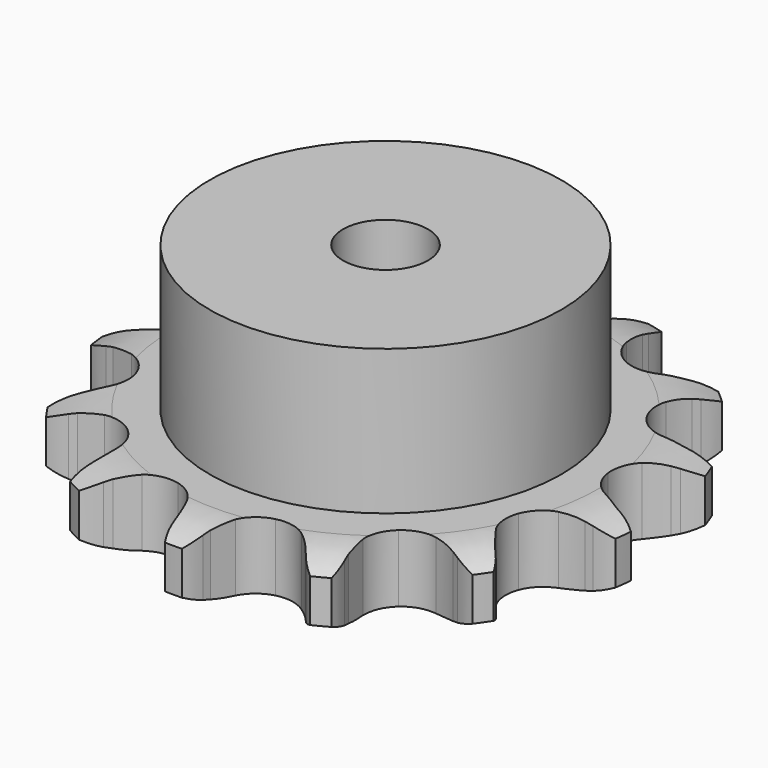
from build123d import *

# Parameters (mm, degrees)
PAD_DEPTH         = 11.1
SKETCH001_R       = 29
PAD001_DEPTH      = 35
SKETCH002_R       = 7
POCKET_DEPTH      = 0.001
POCKET_DEPTH_BACK = -35.001


with BuildPart() as part:
    # Sprocket → Pad (new body)
    with BuildSketch(Plane.XY):
        with BuildLine():
            ThreePointArc((-10.916349, 44.289369), (-8.817314, 42.490887), (-7.281562, 40.192637))
            Line((-7.281562, 40.192637), (-6.735182, 39.068563))
            ThreePointArc((-6.735182, 39.068563), (-5.81288, 37.428138), (-4.701609, 35.909352))
            ThreePointArc((-4.701609, 35.909352), (-2.597907, 34.278231), (0, 33.697713))
            ThreePointArc((0, 33.697713), (2.597907, 34.278231), (4.701609, 35.909352))
            ThreePointArc((4.701609, 35.909352), (5.81288, 37.428138), (6.735182, 39.068563))
            Line((6.735182, 39.068563), (7.281562, 40.192637))
            ThreePointArc((7.281562, 40.192637), (8.817314, 42.490887), (10.916349, 44.289369))
            ThreePointArc((10.916349, 44.289369), (11.939156, 41.721422), (12.230947, 38.972724))
            Line((12.230947, 38.972724), (12.192359, 37.72349))
            ThreePointArc((12.192359, 37.72349), (12.246674, 35.842351), (12.52484, 33.981099))
            ThreePointArc((12.52484, 33.981099), (13.629556, 31.559174), (15.660108, 29.837843))
            ThreePointArc((15.660108, 29.837843), (18.230221, 29.144559), (20.850976, 29.611205))
            Line((20.850976, 29.611205), (24.119774, 31.4635))
            ThreePointArc((24.119774, 31.4635), (24.615511, 31.84418), (25.125953, 32.204902))
            ThreePointArc((25.125953, 32.204902), (27.553844, 33.526202), (30.248243, 34.143208))
            ThreePointArc((30.248243, 34.143208), (29.960509, 31.394082), (28.941493, 28.824629))
            Line((28.941493, 28.824629), (28.326778, 27.73642))
            ThreePointArc((28.326778, 27.73642), (27.500662, 26.045512), (26.881999, 24.268186))
            ThreePointArc((26.881999, 24.268186), (26.734652, 21.61029), (27.732675, 19.142483))
            ThreePointArc((27.732675, 19.142483), (29.686211, 17.33422), (32.223636, 16.529488))
            Line((32.223636, 16.529488), (35.978817, 16.650528))
            ThreePointArc((35.978817, 16.650528), (36.594681, 16.757222), (37.214291, 16.839412))
            ThreePointArc((37.214291, 16.839412), (39.97812, 16.881067), (42.650629, 16.17525))
            ThreePointArc((42.650629, 16.17525), (41.118271, 13.874737), (39.021893, 12.073159))
            Line((39.021893, 12.073159), (37.971873, 11.39527))
            ThreePointArc((37.971873, 11.39527), (36.45458, 10.281961), (35.080816, 8.995723))
            ThreePointArc((35.080816, 8.995723), (33.715161, 6.710749), (33.452019, 4.061811))
            ThreePointArc((33.452019, 4.061811), (34.341447, 1.552819), (36.214249, -0.338935))
            Line((36.214249, -0.338935), (39.595546, -1.97688))
            ThreePointArc((39.595546, -1.97688), (40.19045, -2.168613), (40.777283, -2.383785))
            ThreePointArc((40.777283, -2.383785), (43.24389, -3.631316), (45.28227, -5.498263))
            ThreePointArc((45.28227, -5.498263), (42.856332, -6.823144), (40.162847, -7.444126))
            Line((40.162847, -7.444126), (38.91807, -7.556399))
            ThreePointArc((38.91807, -7.556399), (37.057193, -7.837064), (35.243041, -8.337551))
            ThreePointArc((35.243041, -8.337551), (32.971933, -9.726143), (31.507909, -11.949374))
            ThreePointArc((31.507909, -11.949374), (31.129473, -14.584313), (31.908614, -17.129713))
            Line((31.908614, -17.129713), (34.141413, -20.151408))
            ThreePointArc((34.141413, -20.151408), (34.579072, -20.597644), (34.998691, -21.060885))
            ThreePointArc((34.998691, -21.060885), (36.603007, -23.311808), (37.540289, -25.91219))
            ThreePointArc((37.540289, -25.91219), (34.776525, -25.957925), (32.102976, -25.256052))
            Line((32.102976, -25.256052), (30.948606, -24.776988))
            ThreePointArc((30.948606, -24.776988), (29.17045, -24.160711), (27.33151, -23.760792))
            ThreePointArc((27.33151, -23.760792), (24.675233, -23.934894), (22.345717, -25.223101))
            ThreePointArc((22.345717, -25.223101), (20.786111, -27.380355), (20.2931, -29.99628))
            Line((20.2931, -29.99628), (20.865894, -33.709491))
            ThreePointArc((20.865894, -33.709491), (21.046045, -34.308004), (21.202321, -34.91319))
            ThreePointArc((21.202321, -34.91319), (21.576815, -37.651847), (21.19828, -40.389947))
            ThreePointArc((21.19828, -40.389947), (18.729834, -39.146058), (16.688701, -37.282121))
            Line((16.688701, -37.282121), (15.889189, -36.321467))
            ThreePointArc((15.889189, -36.321467), (14.601108, -34.949432), (13.15866, -33.740723))
            ThreePointArc((13.15866, -33.740723), (10.725734, -32.660448), (8.064391, -32.718519))
            ThreePointArc((8.064391, -32.718519), (5.680901, -33.903888), (4.028681, -35.99106))
            Line((4.028681, -35.99106), (2.81025, -39.545136))
            ThreePointArc((2.81025, -39.545136), (2.691623, -40.158814), (2.548754, -40.767304))
            ThreePointArc((2.548754, -40.767304), (1.607636, -43.3663), (0, -45.614854))
            ThreePointArc((0, -45.614854), (-1.607636, -43.3663), (-2.548754, -40.767304))
            Line((-2.548754, -40.767304), (-2.81025, -39.545136))
            ThreePointArc((-2.81025, -39.545136), (-3.313172, -37.731658), (-4.028681, -35.99106))
            ThreePointArc((-4.028681, -35.99106), (-5.680901, -33.903888), (-8.064391, -32.718519))
            ThreePointArc((-8.064391, -32.718519), (-10.725734, -32.660448), (-13.15866, -33.740723))
            Line((-13.15866, -33.740723), (-15.889189, -36.321467))
            ThreePointArc((-15.889189, -36.321467), (-16.279418, -36.809723), (-16.688701, -37.282121))
            ThreePointArc((-16.688701, -37.282121), (-18.729834, -39.146058), (-21.19828, -40.389947))
            ThreePointArc((-21.19828, -40.389947), (-21.576815, -37.651847), (-21.202321, -34.91319))
            Line((-21.202321, -34.91319), (-20.865894, -33.709491))
            ThreePointArc((-20.865894, -33.709491), (-20.468444, -31.870016), (-20.2931, -29.99628))
            ThreePointArc((-20.2931, -29.99628), (-20.786111, -27.380355), (-22.345717, -25.223101))
            ThreePointArc((-22.345717, -25.223101), (-24.675233, -23.934894), (-27.33151, -23.760792))
            Line((-27.33151, -23.760792), (-30.948606, -24.776988))
            ThreePointArc((-30.948606, -24.776988), (-31.52104, -25.027968), (-32.102976, -25.256052))
            ThreePointArc((-32.102976, -25.256052), (-34.776525, -25.957925), (-37.540289, -25.91219))
            ThreePointArc((-37.540289, -25.91219), (-36.603007, -23.311808), (-34.998691, -21.060885))
            Line((-34.998691, -21.060885), (-34.141413, -20.151408))
            ThreePointArc((-34.141413, -20.151408), (-32.934642, -18.707338), (-31.908614, -17.129713))
            ThreePointArc((-31.908614, -17.129713), (-31.129473, -14.584313), (-31.507909, -11.949374))
            ThreePointArc((-31.507909, -11.949374), (-32.971933, -9.726143), (-35.243041, -8.337551))
            Line((-35.243041, -8.337551), (-38.91807, -7.556399))
            ThreePointArc((-38.91807, -7.556399), (-39.541572, -7.512608), (-40.162847, -7.444126))
            ThreePointArc((-40.162847, -7.444126), (-42.856332, -6.823144), (-45.28227, -5.498263))
            ThreePointArc((-45.28227, -5.498263), (-43.24389, -3.631316), (-40.777283, -2.383785))
            Line((-40.777283, -2.383785), (-39.595546, -1.97688))
            ThreePointArc((-39.595546, -1.97688), (-37.85591, -1.259034), (-36.214249, -0.338935))
            ThreePointArc((-36.214249, -0.338935), (-34.341447, 1.552819), (-33.452019, 4.061811))
            ThreePointArc((-33.452019, 4.061811), (-33.715161, 6.710749), (-35.080816, 8.995723))
            Line((-35.080816, 8.995723), (-37.971873, 11.39527))
            ThreePointArc((-37.971873, 11.39527), (-38.503606, 11.723801), (-39.021893, 12.073159))
            ThreePointArc((-39.021893, 12.073159), (-41.118271, 13.874737), (-42.650629, 16.17525))
            ThreePointArc((-42.650629, 16.17525), (-39.97812, 16.881067), (-37.214291, 16.839412))
            Line((-37.214291, 16.839412), (-35.978817, 16.650528))
            ThreePointArc((-35.978817, 16.650528), (-34.104846, 16.4777), (-32.223636, 16.529488))
            ThreePointArc((-32.223636, 16.529488), (-29.686211, 17.33422), (-27.732675, 19.142483))
            ThreePointArc((-27.732675, 19.142483), (-26.734652, 21.61029), (-26.881999, 24.268186))
            Line((-26.881999, 24.268186), (-28.326778, 27.73642))
            ThreePointArc((-28.326778, 27.73642), (-28.644928, 28.274428), (-28.941493, 28.824629))
            ThreePointArc((-28.941493, 28.824629), (-29.960509, 31.394082), (-30.248243, 34.143208))
            ThreePointArc((-30.248243, 34.143208), (-27.553844, 33.526202), (-25.125953, 32.204902))
            Line((-25.125953, 32.204902), (-24.119774, 31.4635))
            ThreePointArc((-24.119774, 31.4635), (-22.540773, 30.439591), (-20.850976, 29.611205))
            ThreePointArc((-20.850976, 29.611205), (-18.230221, 29.144559), (-15.660108, 29.837843))
            ThreePointArc((-15.660108, 29.837843), (-13.629556, 31.559174), (-12.52484, 33.981099))
            Line((-12.52484, 33.981099), (-12.192359, 37.72349))
            ThreePointArc((-12.192359, 37.72349), (-12.224042, 38.347724), (-12.230947, 38.972724))
            ThreePointArc((-12.230947, 38.972724), (-11.939156, 41.721422), (-10.916349, 44.289369))
        make_face()
    extrude(amount=PAD_DEPTH)

    # Sketch → Groove (revolve, cut)
    with BuildSketch(Plane.XZ):
        with BuildLine():
            Line((35.264719, 0), (43.75, 0))
            Line((52.235281, 0), (43.75, 0))
            Line((52.235281, 11.1), (52.235281, 0))
            Line((43.75, 11.1), (52.235281, 11.1))
            Line((35.264719, 11.1), (43.75, 11.1))
            ThreePointArc((43.75, 9.1), (39.623618, 10.593242), (35.264719, 11.1))
            Line((43.75, 2), (43.75, 9.1))
            ThreePointArc((35.264719, 0), (39.623618, 0.506758), (43.75, 2))
        make_face()
    revolve(axis=Axis((0, 0, 0), (0, 0, 1)), mode=Mode.SUBTRACT)

    # Sketch001 → Pad001 (join)
    with BuildSketch(Plane.XY):
        Circle(SKETCH001_R)
    extrude(amount=PAD001_DEPTH)

    # Sketch002 → Pocket (cut, two sides)
    with BuildSketch(Plane.XY) as pocket_sk:
        Circle(SKETCH002_R)
    extrude(amount=-POCKET_DEPTH, mode=Mode.SUBTRACT)
    extrude(pocket_sk.sketch, amount=-POCKET_DEPTH_BACK, mode=Mode.SUBTRACT)


solid = part.part
